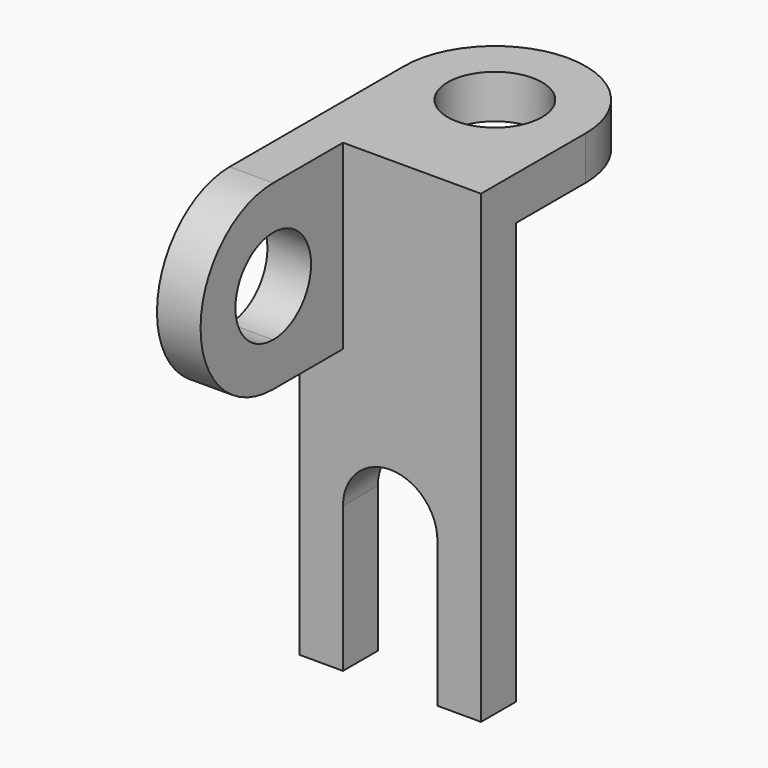
from build123d import *

# Parameters (mm, degrees)
F1_DEPTH = 6
F2_R     = 6.5
F3_DEPTH = 6
F5_DEPTH = 6


with BuildPart() as f1:
    # F0 (on Front) → F1 (new body)
    with BuildSketch(Plane.XZ):
        with BuildLine():
            Line((12.5, -32), (12.5, 32))
            Line((12.5, 32), (-12.5, 32))
            Line((-12.5, 32), (-12.5, -32))
            Line((-12.5, -32), (-6.5, -32))
            Line((-6.5, -32), (-6.5, -12))
            ThreePointArc((-6.5, -12), (0, -5.5), (6.5, -12))
            Line((6.5, -12), (6.5, -32))
            Line((6.5, -32), (12.5, -32))
        make_face()
    extrude(amount=F1_DEPTH)

    # F2 (on face) → F3 (join)
    with BuildSketch(Plane.XY.offset(32)):
        with BuildLine():
            Line((-12.5, -6), (12.5, -6))
            Line((12.5, -6), (12.5, 12))
            ThreePointArc((12.5, 12), (0, -0.5), (-12.5, 12))
            Line((-12.5, 12), (-12.5, -6))
        make_face()
        with BuildLine():
            ThreePointArc((-12.5, 12), (0, -0.5), (12.5, 12))
            ThreePointArc((12.5, 12), (0, 24.5), (-12.5, 12))
        make_face()
        with Locations((0, 12)):
            Circle(F2_R, mode=Mode.SUBTRACT)
    extrude(amount=-F3_DEPTH)

    # F4 (on face) → F5 (join)
    with BuildSketch(Plane(origin=(-12.5, 0, 0), x_dir=(0, -1, 0), z_dir=(-1, 0, 0))):
        with BuildLine():
            ThreePointArc((18, 7), (30.5, 19.5), (18, 32))
            Line((18, 32), (18, 26))
            ThreePointArc((18, 26), (22.596194, 24.096194), (24.5, 19.5))
            ThreePointArc((24.5, 19.5), (22.596194, 14.903806), (18, 13))
            Line((18, 13), (18, 7))
        make_face()
        with BuildLine():
            Line((18, 32), (6, 32))
            Line((6, 32), (6, 7))
            Line((6, 7), (18, 7))
            Line((18, 7), (18, 13))
            ThreePointArc((18, 13), (11.5, 19.5), (18, 26))
            Line((18, 26), (18, 32))
        make_face()
        with BuildLine():
            ThreePointArc((18, 7), (30.5, 19.5), (18, 32))
            Line((18, 32), (18, 26))
            ThreePointArc((18, 26), (22.596194, 24.096194), (24.5, 19.5))
            ThreePointArc((24.5, 19.5), (22.596194, 14.903806), (18, 13))
            Line((18, 13), (18, 7))
        make_face()
    extrude(amount=-F5_DEPTH)


solid = f1.part
